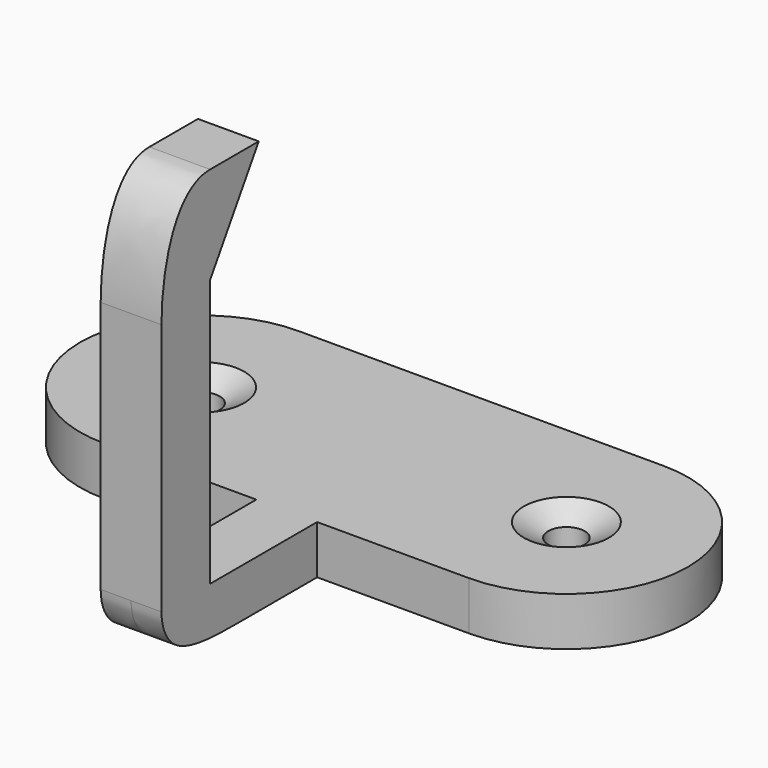
from build123d import *

# Parameters (mm, degrees)
F0_R      = 1.5
F1_DEPTH  = 4
F3_DEPTH  = 2.5
F5_DEPTH  = 30
F7_DEPTH  = 5
F14_DEPTH = 5


with BuildPart() as f1:
    # F0 (on Top) → F1 (new body)
    with BuildSketch(Plane.XY):
        with BuildLine():
            Line((15, 10), (-15, 10))
            ThreePointArc((-15, 10), (-25, 0), (-15, -10))
            Line((-15, -10), (15, -10))
            ThreePointArc((15, -10), (25, 0), (15, 10))
        make_face()
        with Locations((-15, 0)):
            Circle(F0_R, mode=Mode.SUBTRACT)
        with Locations((15, 0)):
            Circle(F0_R, mode=Mode.SUBTRACT)
    extrude(amount=F1_DEPTH)

    # F2 (on Right) → F3 (join, symmetric)
    with BuildSketch(Plane.YZ):
        with BuildLine():
            Line((-10, 0), (-10, 4))
            Line((-10, 4), (-26, 4))
            add(Edge.make_bspline(
                [(-26, 4), (-26, 3), (-25.0865402228, -0.0476028537), (-20, 0), (-18, 0)],
                knots=[0, 0, 0, 0, 0.4160108935, 1, 1, 1, 1], degree=3))
            Line((-18, 0), (-10, 0))
        make_face()
    extrude(amount=F3_DEPTH, both=True)

    # F4 (on face) → F5 (join)
    with BuildSketch(Plane.XY.offset(4)):
        Polygon((-2.5, -21), (-2.5, -26), (0, -26), (2.5, -26), (2.5, -21), align=None)
    extrude(amount=F5_DEPTH)

    # F6 (on face) → F7 (cut, through all)
    with BuildSketch(Plane(origin=(-2.5, 0, 0), x_dir=(0, -1, 0), z_dir=(-1, 0, 0))):
        with BuildLine():
            add(Edge.make_bspline(
                [(26, 24.786574766), (26, 28.7767909467), (24.6865190566, 34), (21, 34)],
                knots=[0, 0, 0, 0, 10.48270979, 10.48270979, 10.48270979, 10.48270979], degree=3))
            Line((26, 24.786574766), (26, 34))
            Line((26, 34), (21, 34))
        make_face()
    extrude(amount=-F7_DEPTH, mode=Mode.SUBTRACT)

    # F9 (on plane+point) → F10 (revolve, cut)
    with BuildSketch(Plane.YZ.offset(15)):
        Polygon((3.5, 4), (0, 4), (0, 2), align=None)
    revolve(axis=Axis((15, 0, 3), (0, 0, -1)), mode=Mode.SUBTRACT)

    # F12 (on plane+point) → F13 (revolve, cut)
    with BuildSketch(Plane.YZ.offset(-15)):
        Polygon((3.5, 4), (0, 4), (0, 2), align=None)
    revolve(axis=Axis((-15, 0, 0), (0, 0, -1)), mode=Mode.SUBTRACT)

    # F6 (on face) → F14 (join, through all)
    with BuildSketch(Plane(origin=(-2.5, 0, 0), x_dir=(0, -1, 0), z_dir=(-1, 0, 0))):
        Polygon((21, 26), (21, 34), (16, 34), align=None)
    extrude(amount=-F14_DEPTH)


solid = f1.part
